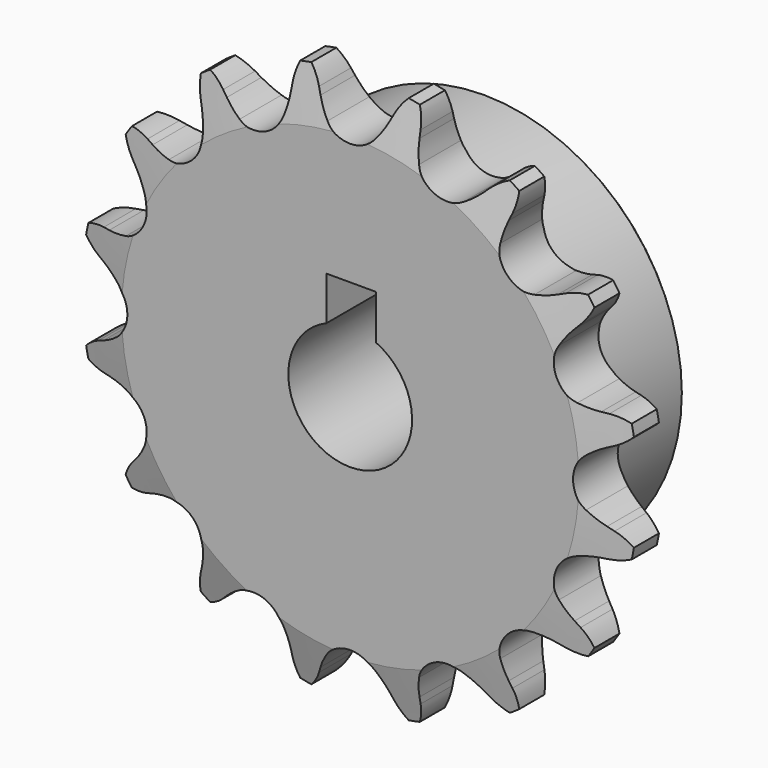
from build123d import *

# Parameters (mm, degrees)
F0_W     = 7.1628
F0_H     = 10.287
F0_H_2   = 17.4625
F0_W_2   = 15.0622
F2_R     = 1.5875
F3_SIZE  = 0.79375
F4_SIZE2 = 6.35
F4_SIZE  = 1.5748
F6_DEPTH = 22.226
F7_W     = 6.35
F7_H     = 6.35
F8_DEPTH = 22.226


with BuildPart() as f1:
    # F0 (on Right) → F1 (revolve)
    with BuildSketch(Plane.YZ):
        with Locations((3.5814, 30.5435)):
            Rectangle(F0_W, F0_H)
        with Locations((3.5814, 16.66875)):
            Rectangle(F0_W, F0_H_2)
        with Locations((14.6939, 16.66875)):
            Rectangle(F0_W_2, F0_H_2)
    revolve(axis=Axis((0, 11.1125, 0), (0, 1, 0)))

    # F2
    f2_edges = [f1.edges().sort_by_distance(p)[0] for p in [
        (0, 7.1628, -25.4),
    ]]
    fillet(f2_edges, radius=F2_R)

    # F3
    f3_edges = [f1.edges().sort_by_distance(p)[0] for p in [
        (0, 22.225, -25.4),
    ]]
    chamfer(f3_edges, length=F3_SIZE)

    # F4
    f4_edges = [f1.edges().sort_by_distance(p)[0] for p in [
        (0, 0, -35.687),
        (0, 7.1628, -35.687),
    ]]
    f4_side = f1.faces().sort_by_distance((0, 3.5814, -35.687))[0]
    chamfer(f4_edges, length=F4_SIZE, length2=F4_SIZE2, reference=f4_side)

    # F5 (on face) → F6 (intersect, through all)
    with BuildSketch(Plane.XZ):
        with BuildLine():
            ThreePointArc((-3.0902142758, 30.0699408338), (-3.8441959519, 31.1417538349), (-4.4568878106, 32.3001493474))
            Line((-4.4568878106, 32.3001493474), (-4.8164154778, 33.0982711732))
            ThreePointArc((-4.8164154778, 33.0982711732), (-5.7824590494, 34.6345413147), (-7.1308367855, 35.8491373836))
            ThreePointArc((-7.1308367855, 35.8491373836), (-7.9117695854, 34.2109951151), (-8.2163723379, 32.4219777052))
            Line((-8.2163723379, 32.4219777052), (-8.2431045912, 31.5470240041))
            ThreePointArc((-8.2431045912, 31.5470240041), (-8.3658592885, 30.2423390761), (-8.6522824488, 28.963576686))
            ThreePointArc((-8.6522824488, 28.963576686), (-10.9400391594, 26.4115909116), (-14.3622538898, 26.5984290744))
            ThreePointArc((-14.3622538898, 26.5984290744), (-15.4690072063, 27.300118873), (-16.4783594451, 28.135869754))
            Line((-16.4783594451, 28.135869754), (-17.115947698, 28.7356528917))
            ThreePointArc((-17.115947698, 28.7356528917), (-18.596360712, 29.7852925621), (-20.3069050971, 30.3914311902))
            ThreePointArc((-20.3069050971, 30.3914311902), (-20.4015030212, 28.5791350327), (-19.9982919468, 26.8097320375))
            Line((-19.9982919468, 26.8097320375), (-19.688159043, 25.9911502307))
            ThreePointArc((-19.688159043, 25.9911502307), (-19.3022882889, 24.7388023405), (-19.0775476037, 23.4477705432))
            ThreePointArc((-19.0775476037, 23.4477705432), (-20.2145565285, 20.2145565285), (-23.4477705432, 19.0775476037))
            ThreePointArc((-23.4477705432, 19.0775476037), (-24.7388023405, 19.3022882889), (-25.9911502307, 19.688159043))
            Line((-25.9911502307, 19.688159043), (-26.8097320375, 19.9982919468))
            ThreePointArc((-26.8097320375, 19.9982919468), (-28.5791350327, 20.4015030212), (-30.3914311902, 20.3069050971))
            ThreePointArc((-30.3914311902, 20.3069050971), (-29.7852925621, 18.596360712), (-28.7356528917, 17.115947698))
            Line((-28.7356528917, 17.115947698), (-28.135869754, 16.4783594451))
            ThreePointArc((-28.135869754, 16.4783594451), (-27.300118873, 15.4690072063), (-26.5984290744, 14.3622538898))
            ThreePointArc((-26.5984290744, 14.3622538898), (-26.4115909116, 10.9400391594), (-28.963576686, 8.6522824488))
            ThreePointArc((-28.963576686, 8.6522824488), (-30.2423390761, 8.3658592885), (-31.5470240041, 8.2431045912))
            Line((-31.5470240041, 8.2431045912), (-32.4219777052, 8.2163723379))
            ThreePointArc((-32.4219777052, 8.2163723379), (-34.2109951151, 7.9117695854), (-35.8491373836, 7.1308367855))
            ThreePointArc((-35.8491373836, 7.1308367855), (-34.6345413147, 5.7824590494), (-33.0982711732, 4.8164154778))
            Line((-33.0982711732, 4.8164154778), (-32.3001493474, 4.4568878106))
            ThreePointArc((-32.3001493474, 4.4568878106), (-31.1417538349, 3.8441959519), (-30.0699408338, 3.0902142758))
            ThreePointArc((-30.0699408338, 3.0902142758), (-28.5877, 0), (-30.0699408338, -3.0902142758))
            ThreePointArc((-30.0699408338, -3.0902142758), (-31.1417538349, -3.8441959519), (-32.3001493474, -4.4568878106))
            Line((-32.3001493474, -4.4568878106), (-33.0982711732, -4.8164154778))
            ThreePointArc((-33.0982711732, -4.8164154778), (-34.6345413147, -5.7824590494), (-35.8491373836, -7.1308367855))
            ThreePointArc((-35.8491373836, -7.1308367855), (-34.2109951151, -7.9117695854), (-32.4219777052, -8.2163723379))
            Line((-32.4219777052, -8.2163723379), (-31.5470240041, -8.2431045912))
            ThreePointArc((-31.5470240041, -8.2431045912), (-30.2423390761, -8.3658592885), (-28.963576686, -8.6522824488))
            ThreePointArc((-28.963576686, -8.6522824488), (-26.4115909116, -10.9400391594), (-26.5984290744, -14.3622538898))
            ThreePointArc((-26.5984290744, -14.3622538898), (-27.300118873, -15.4690072063), (-28.135869754, -16.4783594451))
            Line((-28.135869754, -16.4783594451), (-28.7356528917, -17.115947698))
            ThreePointArc((-28.7356528917, -17.115947698), (-29.7852925621, -18.596360712), (-30.3914311902, -20.3069050971))
            ThreePointArc((-30.3914311902, -20.3069050971), (-28.5791350327, -20.4015030212), (-26.8097320375, -19.9982919468))
            Line((-26.8097320375, -19.9982919468), (-25.9911502307, -19.688159043))
            ThreePointArc((-25.9911502307, -19.688159043), (-24.7388023405, -19.3022882889), (-23.4477705432, -19.0775476037))
            ThreePointArc((-23.4477705432, -19.0775476037), (-20.2145565285, -20.2145565285), (-19.0775476037, -23.4477705432))
            ThreePointArc((-19.0775476037, -23.4477705432), (-19.3022882889, -24.7388023405), (-19.688159043, -25.9911502307))
            Line((-19.688159043, -25.9911502307), (-19.9982919468, -26.8097320375))
            ThreePointArc((-19.9982919468, -26.8097320375), (-20.4015030212, -28.5791350327), (-20.3069050971, -30.3914311902))
            ThreePointArc((-20.3069050971, -30.3914311902), (-18.596360712, -29.7852925621), (-17.115947698, -28.7356528917))
            Line((-17.115947698, -28.7356528917), (-16.4783594451, -28.135869754))
            ThreePointArc((-16.4783594451, -28.135869754), (-15.4690072063, -27.300118873), (-14.3622538898, -26.5984290744))
            ThreePointArc((-14.3622538898, -26.5984290744), (-10.9400391594, -26.4115909116), (-8.6522824488, -28.963576686))
            ThreePointArc((-8.6522824488, -28.963576686), (-8.3658592885, -30.2423390761), (-8.2431045912, -31.5470240041))
            Line((-8.2431045912, -31.5470240041), (-8.2163723379, -32.4219777052))
            ThreePointArc((-8.2163723379, -32.4219777052), (-7.9117695854, -34.2109951151), (-7.1308367855, -35.8491373836))
            ThreePointArc((-7.1308367855, -35.8491373836), (-5.7824590494, -34.6345413147), (-4.8164154778, -33.0982711732))
            Line((-4.8164154778, -33.0982711732), (-4.4568878106, -32.3001493474))
            ThreePointArc((-4.4568878106, -32.3001493474), (-3.8441959519, -31.1417538349), (-3.0902142758, -30.0699408338))
            ThreePointArc((-3.0902142758, -30.0699408338), (0, -28.5877), (3.0902142758, -30.0699408338))
            ThreePointArc((3.0902142758, -30.0699408338), (3.8441959519, -31.1417538349), (4.4568878106, -32.3001493474))
            Line((4.4568878106, -32.3001493474), (4.8164154778, -33.0982711732))
            ThreePointArc((4.8164154778, -33.0982711732), (5.7824590494, -34.6345413147), (7.1308367855, -35.8491373836))
            ThreePointArc((7.1308367855, -35.8491373836), (7.9117695854, -34.2109951151), (8.2163723379, -32.4219777052))
            Line((8.2163723379, -32.4219777052), (8.2431045912, -31.5470240041))
            ThreePointArc((8.2431045912, -31.5470240041), (8.3658592885, -30.2423390761), (8.6522824488, -28.963576686))
            ThreePointArc((8.6522824488, -28.963576686), (10.9400391594, -26.4115909116), (14.3622538898, -26.5984290744))
            ThreePointArc((14.3622538898, -26.5984290744), (15.4690072063, -27.300118873), (16.4783594451, -28.135869754))
            Line((16.4783594451, -28.135869754), (17.115947698, -28.7356528917))
            ThreePointArc((17.115947698, -28.7356528917), (18.596360712, -29.7852925621), (20.3069050971, -30.3914311902))
            ThreePointArc((20.3069050971, -30.3914311902), (20.4015030212, -28.5791350327), (19.9982919468, -26.8097320375))
            Line((19.9982919468, -26.8097320375), (19.688159043, -25.9911502307))
            ThreePointArc((19.688159043, -25.9911502307), (19.3022882889, -24.7388023405), (19.0775476037, -23.4477705432))
            ThreePointArc((19.0775476037, -23.4477705432), (20.2145565285, -20.2145565285), (23.4477705432, -19.0775476037))
            ThreePointArc((23.4477705432, -19.0775476037), (24.7388023405, -19.3022882889), (25.9911502307, -19.688159043))
            Line((25.9911502307, -19.688159043), (26.8097320375, -19.9982919468))
            ThreePointArc((26.8097320375, -19.9982919468), (28.5791350327, -20.4015030212), (30.3914311902, -20.3069050971))
            ThreePointArc((30.3914311902, -20.3069050971), (29.7852925621, -18.596360712), (28.7356528917, -17.115947698))
            Line((28.7356528917, -17.115947698), (28.135869754, -16.4783594451))
            ThreePointArc((28.135869754, -16.4783594451), (27.300118873, -15.4690072063), (26.5984290744, -14.3622538898))
            ThreePointArc((26.5984290744, -14.3622538898), (26.4115909116, -10.9400391594), (28.963576686, -8.6522824488))
            ThreePointArc((28.963576686, -8.6522824488), (30.2423390761, -8.3658592885), (31.5470240041, -8.2431045912))
            Line((31.5470240041, -8.2431045912), (32.4219777052, -8.2163723379))
            ThreePointArc((32.4219777052, -8.2163723379), (34.2109951151, -7.9117695854), (35.8491373836, -7.1308367855))
            ThreePointArc((35.8491373836, -7.1308367855), (34.6345413147, -5.7824590494), (33.0982711732, -4.8164154778))
            Line((33.0982711732, -4.8164154778), (32.3001493474, -4.4568878106))
            ThreePointArc((32.3001493474, -4.4568878106), (31.1417538349, -3.8441959519), (30.0699408338, -3.0902142758))
            ThreePointArc((30.0699408338, -3.0902142758), (28.5877, 0), (30.0699408338, 3.0902142758))
            ThreePointArc((30.0699408338, 3.0902142758), (31.1417538349, 3.8441959519), (32.3001493474, 4.4568878106))
            Line((32.3001493474, 4.4568878106), (33.0982711732, 4.8164154778))
            ThreePointArc((33.0982711732, 4.8164154778), (34.6345413147, 5.7824590494), (35.8491373836, 7.1308367855))
            ThreePointArc((35.8491373836, 7.1308367855), (34.2109951151, 7.9117695854), (32.4219777052, 8.2163723379))
            Line((32.4219777052, 8.2163723379), (31.5470240041, 8.2431045912))
            ThreePointArc((31.5470240041, 8.2431045912), (30.2423390761, 8.3658592885), (28.963576686, 8.6522824488))
            ThreePointArc((28.963576686, 8.6522824488), (26.4115909116, 10.9400391594), (26.5984290744, 14.3622538898))
            ThreePointArc((26.5984290744, 14.3622538898), (27.300118873, 15.4690072063), (28.135869754, 16.4783594451))
            Line((28.135869754, 16.4783594451), (28.7356528917, 17.115947698))
            ThreePointArc((28.7356528917, 17.115947698), (29.7852925621, 18.596360712), (30.3914311902, 20.3069050971))
            ThreePointArc((30.3914311902, 20.3069050971), (28.5791350327, 20.4015030212), (26.8097320375, 19.9982919468))
            Line((26.8097320375, 19.9982919468), (25.9911502307, 19.688159043))
            ThreePointArc((25.9911502307, 19.688159043), (24.7388023405, 19.3022882889), (23.4477705432, 19.0775476037))
            ThreePointArc((23.4477705432, 19.0775476037), (20.2145565285, 20.2145565285), (19.0775476037, 23.4477705432))
            ThreePointArc((19.0775476037, 23.4477705432), (19.3022882889, 24.7388023405), (19.688159043, 25.9911502307))
            Line((19.688159043, 25.9911502307), (19.9982919468, 26.8097320375))
            ThreePointArc((19.9982919468, 26.8097320375), (20.4015030212, 28.5791350327), (20.3069050971, 30.3914311902))
            ThreePointArc((20.3069050971, 30.3914311902), (18.596360712, 29.7852925621), (17.115947698, 28.7356528917))
            Line((17.115947698, 28.7356528917), (16.4783594451, 28.135869754))
            ThreePointArc((16.4783594451, 28.135869754), (15.4690072063, 27.300118873), (14.3622538898, 26.5984290744))
            ThreePointArc((14.3622538898, 26.5984290744), (10.9400391594, 26.4115909116), (8.6522824488, 28.963576686))
            ThreePointArc((8.6522824488, 28.963576686), (8.3658592885, 30.2423390761), (8.2431045912, 31.5470240041))
            Line((8.2431045912, 31.5470240041), (8.2163723379, 32.4219777052))
            ThreePointArc((8.2163723379, 32.4219777052), (7.9117695854, 34.2109951151), (7.1308367855, 35.8491373836))
            ThreePointArc((7.1308367855, 35.8491373836), (5.7824590494, 34.6345413147), (4.8164154778, 33.0982711732))
            Line((4.8164154778, 33.0982711732), (4.4568878106, 32.3001493474))
            ThreePointArc((4.4568878106, 32.3001493474), (3.8441959519, 31.1417538349), (3.0902142758, 30.0699408338))
            ThreePointArc((3.0902142758, 30.0699408338), (0, 28.5877), (-3.0902142758, 30.0699408338))
        make_face()
    extrude(amount=-F6_DEPTH, mode=Mode.INTERSECT)

    # F7 (on face) → F8 (cut, through all)
    with BuildSketch(Plane.XZ):
        with Locations((0.1228142448, 9.7626202822)):
            Rectangle(F7_W, F7_H)
    extrude(amount=-F8_DEPTH, mode=Mode.SUBTRACT)


solid = f1.part
